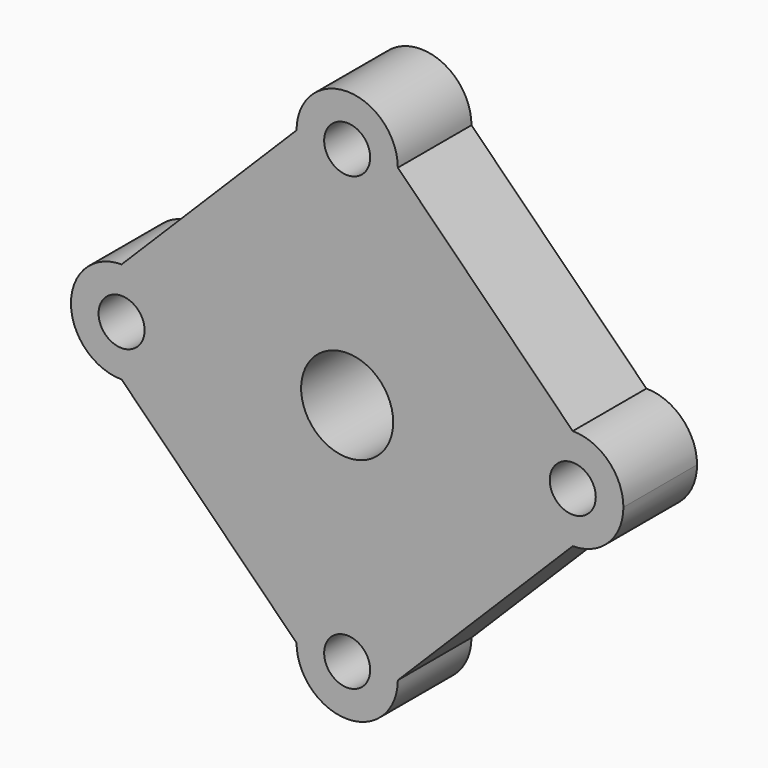
from build123d import *

# Parameters (mm, degrees)
F0_R     = 3.175
F0_R_2   = 12.7
F0_R_3   = 6.35
F1_DEPTH = 12.7


with BuildPart() as f1:
    # F0 (on Front) → F1 (new body)
    with BuildSketch(Plane.XZ):
        with BuildLine():
            ThreePointArc((-31.115, -6.985), (-26.175859, -4.939141), (-24.13, 0))
            ThreePointArc((-24.13, 0), (-26.175859, 4.939141), (-31.115, 6.985))
            ThreePointArc((-31.115, 6.985), (-38.1, 0), (-31.115, -6.985))
        make_face()
        with Locations((-31.115, 0)):
            Circle(F0_R, mode=Mode.SUBTRACT)
        with BuildLine():
            ThreePointArc((-31.115, 6.985), (-26.175859, 4.939141), (-24.13, 0))
            ThreePointArc((-24.13, 0), (-26.175859, -4.939141), (-31.115, -6.985))
            Line((-31.115, -6.985), (-6.985, -31.115))
            ThreePointArc((-6.985, -31.115), (0, -24.13), (6.985, -31.115))
            Line((6.985, -31.115), (31.115, -6.985))
            ThreePointArc((31.115, -6.985), (24.13, 0), (31.115, 6.985))
            Line((31.115, 6.985), (6.985, 31.115))
            ThreePointArc((6.985, 31.115), (0, 24.13), (-6.985, 31.115))
            Line((-6.985, 31.115), (-31.115, 6.985))
        make_face()
        Circle(F0_R_2, mode=Mode.SUBTRACT)
        with BuildLine():
            ThreePointArc((6.985, 31.115), (0, 38.1), (-6.985, 31.115))
            ThreePointArc((-6.985, 31.115), (0, 24.13), (6.985, 31.115))
        make_face()
        with Locations((0, 31.115)):
            Circle(F0_R, mode=Mode.SUBTRACT)
        with BuildLine():
            ThreePointArc((6.985, -31.115), (0, -24.13), (-6.985, -31.115))
            ThreePointArc((-6.985, -31.115), (0, -38.1), (6.985, -31.115))
        make_face()
        with Locations((0, -31.115)):
            Circle(F0_R, mode=Mode.SUBTRACT)
        with BuildLine():
            ThreePointArc((38.1, 0), (36.054141, 4.939141), (31.115, 6.985))
            ThreePointArc((31.115, 6.985), (24.13, 0), (31.115, -6.985))
            ThreePointArc((31.115, -6.985), (36.054141, -4.939141), (38.1, 0))
        make_face()
        with Locations((31.115, 0)):
            Circle(F0_R, mode=Mode.SUBTRACT)
        Circle(F0_R_2)
        Circle(F0_R_3, mode=Mode.SUBTRACT)
    extrude(amount=F1_DEPTH)


solid = f1.part
